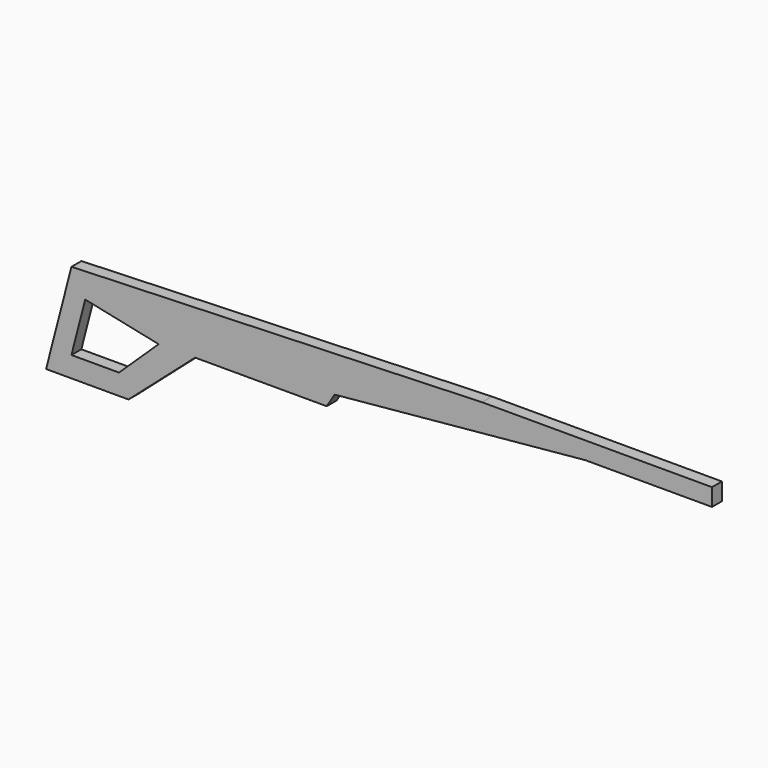
from build123d import *

# Parameters (mm, degrees)
F1_DEPTH = 30.48


with BuildPart() as f1:
    # F0 (on Front) → F1 (new body)
    with BuildSketch(Plane.XZ):
        Polygon((-58.034092, 132.71676), (-1066.384315, 97.677581), (-1128.676295, -143.703565), (-926.22745, -143.703565), (-762.711227, 0), (-439.572006, 0), (-420.105785, 31.49242), (195.02674, 89.891069), (506.486297, 89.891069), (506.486297, 132.71676), align=None)
        Polygon((-949.586928, -93.091384), (-1066.384315, -93.091384), (-1032.594723, 37.843139), (-852.255821, 0), align=None, mode=Mode.SUBTRACT)
    extrude(amount=F1_DEPTH)


solid = f1.part
